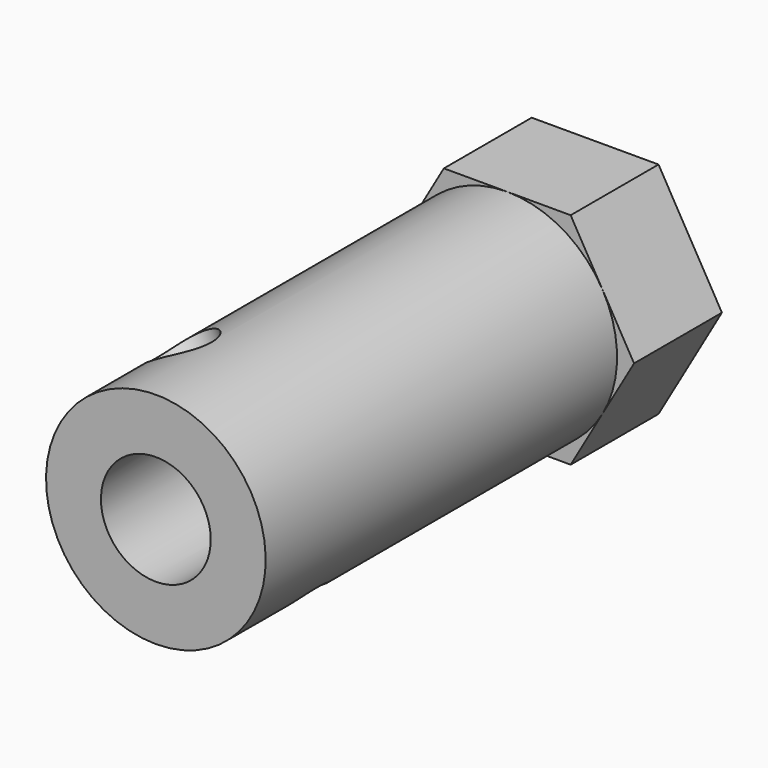
from build123d import *

# Parameters (mm, degrees)
PAD122_DEPTH            = 6
SKETCH186_R             = 6
PAD123_DEPTH            = 24
SKETCH187_R             = 3
POCKET046_DEPTH         = 24.5
SKETCH188_R             = 1.75
POCKET047_DEPTH         = 6
SKETCH189_R             = 1.75
POCKET048_DEPTH         = 7
BODY102_ROLL_ANGLE      = 90.00003
BODY102_PITCH_ANGLE     = -30.000033
BODY102_PLACEMENT_ANGLE = -8e-06


with BuildPart() as part:
    # Sketch185 → Pad122 (new body)
    with BuildSketch(Plane.XY):
        Polygon((6, 3.464102), (0, 6.928203), (-6, 3.464102), (-6, -3.464102), (0, -6.928203), (6, -3.464102), align=None)
    extrude(amount=PAD122_DEPTH)

    # Sketch186 (on Face8 of Pad122) → Pad123 (join)
    with BuildSketch(Plane.XY.offset(6)):
        Circle(SKETCH186_R)
    extrude(amount=PAD123_DEPTH)

    # Sketch187 (on Face15 of Pad123) → Pocket046 (cut)
    with BuildSketch(Plane.XY.offset(30)):
        Circle(SKETCH187_R)
    extrude(amount=-POCKET046_DEPTH, mode=Mode.SUBTRACT)

    # Sketch188 (on Face4 of Pocket046) → Pocket047 (cut)
    with BuildSketch(Plane(origin=(0, 0, 0), x_dir=(1, 0, 0), z_dir=(0, 0, -1))):
        Circle(SKETCH188_R)
    extrude(amount=-POCKET047_DEPTH, mode=Mode.SUBTRACT)

    # Sketch189 → Pocket048 (cut, symmetric)
    with BuildSketch(Plane.XZ):
        with Locations((0, 24.5)):
            Circle(SKETCH189_R)
    extrude(amount=POCKET048_DEPTH, both=True, mode=Mode.SUBTRACT)


with BuildPart() as part_1:
    # Body102 roll: moved
    add(part.part.rotate(Axis((0, 0, 0), (1, 0, 0)), BODY102_ROLL_ANGLE))


with BuildPart() as part_2:
    # Body102 pitch: moved
    add(part_1.part.rotate(Axis((0, 0, 0), (0, 1, 0)), BODY102_PITCH_ANGLE))


with BuildPart() as part_3:
    # Body102 placement: moved
    add(part_2.part.moved(Location((0, 10.3, 0))).rotate(Axis((0, 10.3, 0), (0, 0, 1)), BODY102_PLACEMENT_ANGLE))


solid = part_3.part
